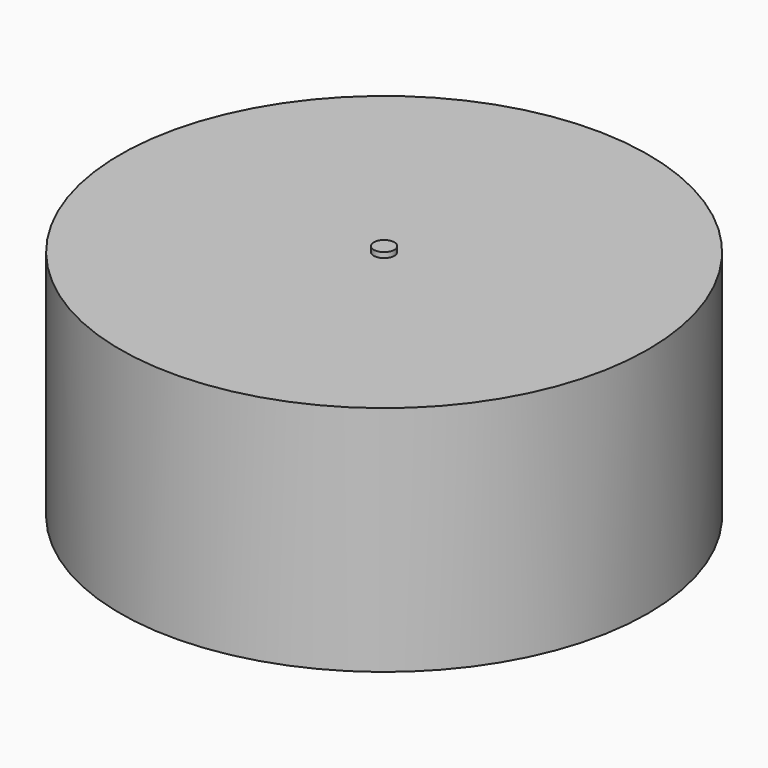
from build123d import *

# Parameters (mm, degrees)
F0_R     = 25
F1_DEPTH = 11
F2_R     = 0.973262
F3_DEPTH = 0.5


with BuildPart() as f1:
    # F0 (on Top) → F1 (new body, symmetric)
    with BuildSketch(Plane.XY):
        Circle(F0_R)
    extrude(amount=F1_DEPTH, both=True)

    # F2 (on face) → F3 (join)
    with BuildSketch(Plane.XY.offset(11)):
        Circle(F2_R)
    extrude(amount=F3_DEPTH)


solid = f1.part
